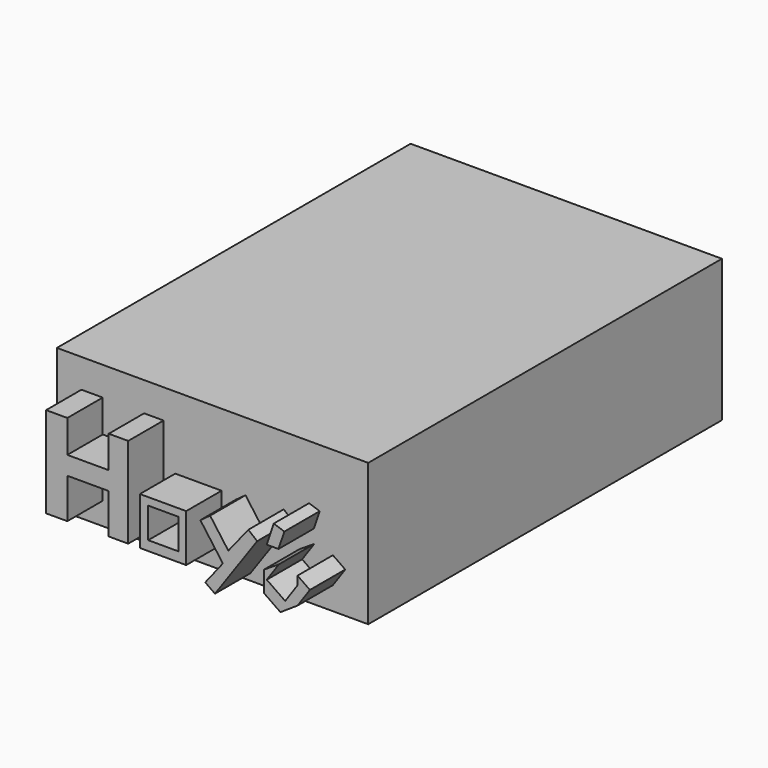
from build123d import *

# Parameters (mm, degrees)
F0_W     = 178.8574159145
F0_H     = 81.6361643374
F1_DEPTH = 254
F2_W     = 23.7848889083
F2_H     = 10.5402404442
F2_W_2   = 26.5901517123
F2_H_2   = 27.3088035174
F2_W_3   = 17.2476675361
F2_H_3   = 17.4872139469
F3_DEPTH = 279.4


with BuildPart() as f1:
    # F0 (on Front) → F1 (new body)
    with BuildSketch(Plane.XZ):
        with Locations((39.3337905407, -5.5660996586)):
            Rectangle(F0_W, F0_H)
    extrude(amount=F1_DEPTH)

    # F2 (on Front) → F3 (join)
    with BuildSketch(Plane.XZ):
        Polygon((-23.7848889083, 18.684970215), (-36.00198403, 18.684970215), (-36.00198403, -33.5371270776), (-23.7848889083, -33.5371270776), (-23.7848889083, -10.5402404442), (-23.7848889083, 0), align=None)
        with Locations((-11.8924444541, -5.2701202221)):
            Rectangle(F2_W, F2_H)
        Polygon((0, 18.4454191476), (0, 0), (0, -10.5402404442), (0, -33.5371270776), (11.1895417795, -33.5371270776), (11.1895417795, 18.4454191476), align=None)
        with Locations((31.1920428649, -19.8827253189)):
            Rectangle(F2_W_2, F2_H_2)
        with Locations((31.3118183985, -19.2838474177)):
            Rectangle(F2_W_3, F2_H_3, mode=Mode.SUBTRACT)
        Polygon((58.2506749504, -4.0445046551), (52.6318475604, -8.144730702), (65.5675977468, -25.8714966476), (55.4336216789, -38.7093556306), (61.0161311924, -42.6400601864), (85.3046610062, -8.144730702), (80.1802054048, -4.0445046551), (68.7108764795, -18.3788526116), align=None)
        Polygon((100.8825037981, 1.7623157246), (94.7928056121, 3.8328145165), (90.7204374671, -8.144730702), (97.5141057214, -8.144730702), align=None)
        Polygon((97.7708830958, -15.8204832481), (89.2352089286, -21.2462227792), (89.2352089286, -33.206935972), (98.6418065629, -39.7368925247), (108.4621548653, -33.206935972), (115.5638098717, -22.9767896235), (108.4621548653, -18.0468988759), (108.4621548653, -22.9767896235), (101.3604998589, -33.206935972), (90.7935802111, -25.8714966476), align=None)
    extrude(amount=F3_DEPTH)


solid = f1.part
